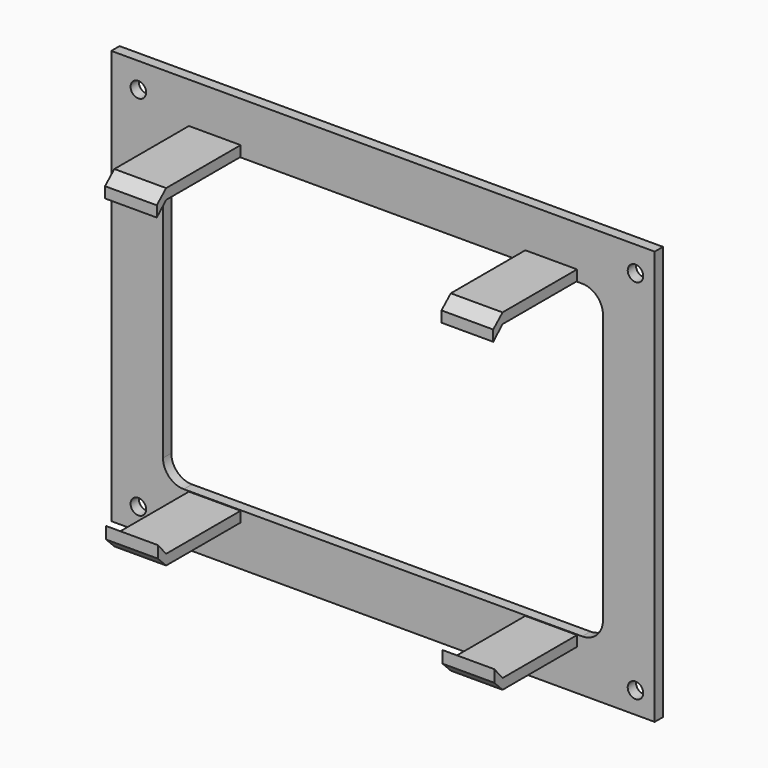
from build123d import *

# Parameters (mm, degrees)
F0_W      = 105
F0_H      = 80
F0_W_2    = 10
F0_H_2    = 2
F1_DEPTH  = 2
F2_D      = 3
F3_DEPTH  = 20
F5_DEPTH  = 10
F7_DEPTH  = 10
F9_DEPTH  = 10
F11_DEPTH = 10


with BuildPart() as f1:
    # F0 (on Front) → F1 (new body)
    with BuildSketch(Plane.XZ):
        with Locations((4.4443034394, -0.1203698614)):
            Rectangle(F0_W, F0_H)
        with Locations((-28.0556965606, -31.2203698614)):
            Rectangle(F0_W_2, F0_H_2, mode=Mode.SUBTRACT)
        with Locations((36.9443034394, -31.2203698614)):
            Rectangle(F0_W_2, F0_H_2, mode=Mode.SUBTRACT)
        with Locations((-28.0556965606, 30.9796301386)):
            Rectangle(F0_W_2, F0_H_2, mode=Mode.SUBTRACT)
        with BuildLine():
            ThreePointArc((-38.0556965606, 25.8796301386), (-36.8841236853, 28.7080572633), (-34.0556965606, 29.8796301386))
            Line((-34.0556965606, 29.8796301386), (42.9443034394, 29.8796301386))
            ThreePointArc((42.9443034394, 29.8796301386), (45.7727305642, 28.7080572633), (46.9443034394, 25.8796301386))
            Line((46.9443034394, 25.8796301386), (46.9443034394, -26.1203698614))
            ThreePointArc((46.9443034394, -26.1203698614), (45.7727305642, -28.9487969862), (42.9443034394, -30.1203698614))
            Line((42.9443034394, -30.1203698614), (-34.0556965606, -30.1203698614))
            ThreePointArc((-34.0556965606, -30.1203698614), (-36.8841236853, -28.9487969862), (-38.0556965606, -26.1203698614))
            Line((-38.0556965606, -26.1203698614), (-38.0556965606, 25.8796301386))
        make_face(mode=Mode.SUBTRACT)
        with Locations((36.9443034394, 30.9796301386)):
            Rectangle(F0_W_2, F0_H_2, mode=Mode.SUBTRACT)
    extrude(amount=F1_DEPTH)

    # F2 (through all)
    with Locations(Plane(origin=(0, 0, 0), x_dir=(1, 0, 0), z_dir=(0, 1, 0))):
        with Locations((-42.8249463439, -34.9864512682), (-42.8249463439, 35.9423682094), (53.229637444, 35.9423682094), (53.229637444, -34.9864512682)):
            Hole(F2_D / 2)

    # F0 (on Front) → F3 (join)
    with BuildSketch(Plane.XZ):
        with Locations((-28.0556965606, 30.9796301386)):
            Rectangle(F0_W_2, F0_H_2)
        with Locations((36.9443034394, 30.9796301386)):
            Rectangle(F0_W_2, F0_H_2)
        with Locations((-28.0556965606, -31.2203698614)):
            Rectangle(F0_W_2, F0_H_2)
        with Locations((36.9443034394, -31.2203698614)):
            Rectangle(F0_W_2, F0_H_2)
    extrude(amount=F3_DEPTH)

    # F4 (on face) → F5 (join)
    with BuildSketch(Plane(origin=(-33.0556965606, 0, 0), x_dir=(0, -1, 0), z_dir=(-1, 0, 0))):
        Polygon((20, 31.9796301386), (20, 29.9796301386), (22.2622127322, 27.8908082008), (22.2622127322, 29.9796301386), align=None)
    extrude(amount=-F5_DEPTH)

    # F6 (on face) → F7 (join)
    with BuildSketch(Plane(origin=(-33.0556965606, 0, 0), x_dir=(0, -1, 0), z_dir=(-1, 0, 0))):
        Polygon((22.0167362937, -27.9179245889), (20, -30.2203698614), (20, -32.2203698614), (22.0167362937, -30.2203698614), align=None)
    extrude(amount=-F7_DEPTH)

    # F8 (on face) → F9 (join)
    with BuildSketch(Plane.YZ.offset(41.9443034394)):
        Polygon((-22.2486329954, 27.8861031592), (-20, 29.9796301386), (-20, 31.9796301386), (-22.2486329954, 29.9796301386), align=None)
    extrude(amount=-F9_DEPTH)

    # F10 (on face) → F11 (join)
    with BuildSketch(Plane.YZ.offset(41.9443034394)):
        Polygon((-21.9842810184, -30.2190438569), (-20, -32.2203698614), (-20, -30.2203698614), (-21.9842810184, -27.9021759242), align=None)
    extrude(amount=-F11_DEPTH)


solid = f1.part
